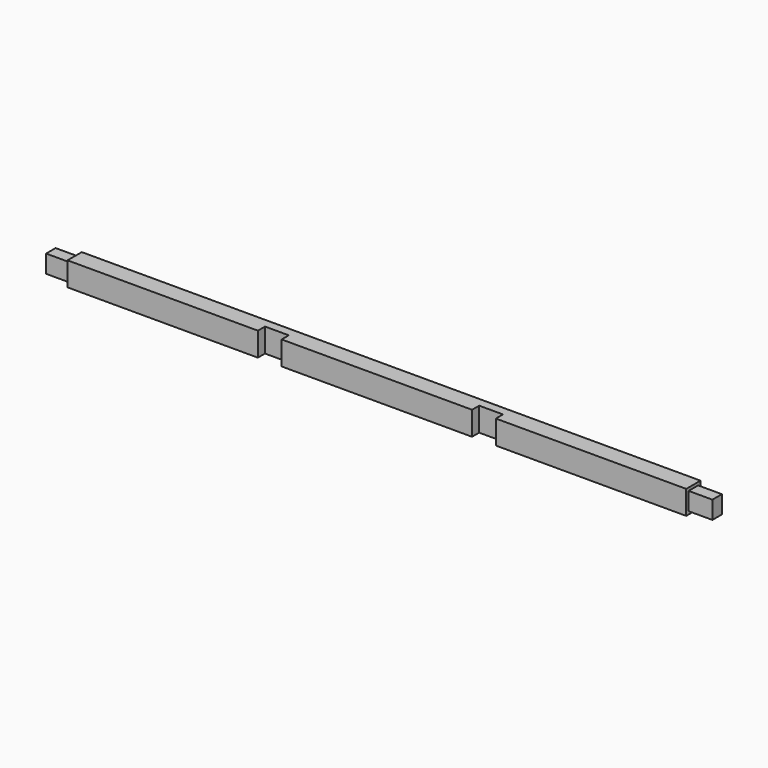
from build123d import *

# Parameters (mm, degrees)
F0_W     = 660.4
F0_H     = 25.4
F1_DEPTH = 9.525
F2_W     = 25.4
F2_H     = 25.4
F3_DEPTH = 9.525
F4_DEPTH = 9.525
F5_W     = 12.7
F5_H     = 19.05
F7_DEPTH = 25.4
F6_W     = 12.7
F6_H     = 19.05
F8_DEPTH = 25.4


with BuildPart() as f1:
    # F0 (on Front) → F1 (new body, symmetric)
    with BuildSketch(Plane.XZ):
        Rectangle(F0_W, F0_H)
    extrude(amount=F1_DEPTH, both=True)

    # F2 (on face) → F3 (cut)
    with BuildSketch(Plane.XZ.offset(9.525)):
        with Locations((-114.3, 0)):
            Rectangle(F2_W, F2_H)
    extrude(amount=-F3_DEPTH, mode=Mode.SUBTRACT)

    # F2 (on face) → F4 (cut)
    with BuildSketch(Plane.XZ.offset(9.525)):
        with Locations((114.3, 0)):
            Rectangle(F2_W, F2_H)
    extrude(amount=-F4_DEPTH, mode=Mode.SUBTRACT)

    # F5 (on face) → F7 (join)
    with BuildSketch(Plane(origin=(-330.2, 0, 0), x_dir=(0, -1, 0), z_dir=(-1, 0, 0))):
        Rectangle(F5_W, F5_H)
    extrude(amount=F7_DEPTH)

    # F6 (on face) → F8 (join)
    with BuildSketch(Plane.YZ.offset(330.2)):
        Rectangle(F6_W, F6_H)
    extrude(amount=F8_DEPTH)


solid = f1.part
